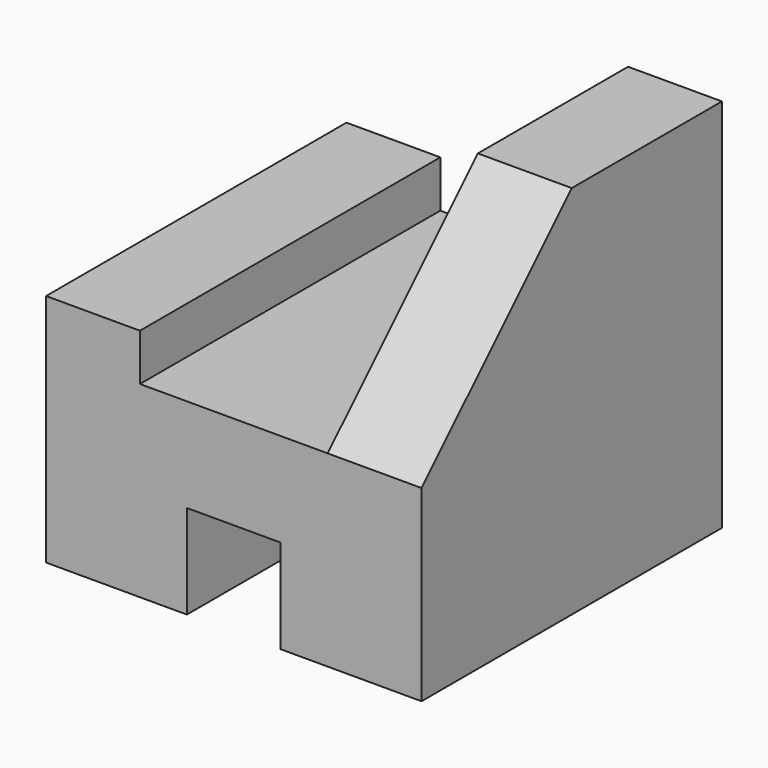
from build123d import *

# Parameters (mm, degrees)
F0_W     = 101.6
F0_H     = 101.6
F1_DEPTH = 101.6
F2_W     = 25.4
F2_H     = 25.4
F3_DEPTH = 1955.8
F4_W     = 25.4
F4_H     = 38.1
F5_DEPTH = 101.6
F7_DEPTH = 1955.8
F9_DEPTH = 25.4


with BuildPart() as f1:
    # F0 (on Front) → F1 (new body)
    with BuildSketch(Plane.XZ):
        with Locations((-50.8, 50.8)):
            Rectangle(F0_W, F0_H)
    extrude(amount=F1_DEPTH)

    # F2 (on face) → F3 (cut)
    with BuildSketch(Plane.XZ.offset(101.6)):
        with Locations((-50.8, 12.7)):
            Rectangle(F2_W, F2_H)
    extrude(amount=-F3_DEPTH, mode=Mode.SUBTRACT)

    # F4 (on face) → F5 (cut)
    with BuildSketch(Plane.XZ.offset(101.6)):
        with Locations((-88.9, 82.55)):
            Rectangle(F4_W, F4_H)
    extrude(amount=-F5_DEPTH, mode=Mode.SUBTRACT)

    # F6 (on face) → F7 (cut)
    with BuildSketch(Plane.XZ.offset(101.6)):
        Polygon((-76.2, 101.6), (-76.2, 63.5), (-76.2, 50.8), (-25.4, 50.8), (-25.4, 101.6), align=None)
    extrude(amount=-F7_DEPTH, mode=Mode.SUBTRACT)

    # F8 (on face) → F9 (cut)
    with BuildSketch(Plane.YZ):
        Polygon((-101.6, 101.6), (-101.6, 50.8), (-50.8, 101.6), align=None)
    extrude(amount=-F9_DEPTH, mode=Mode.SUBTRACT)


solid = f1.part
